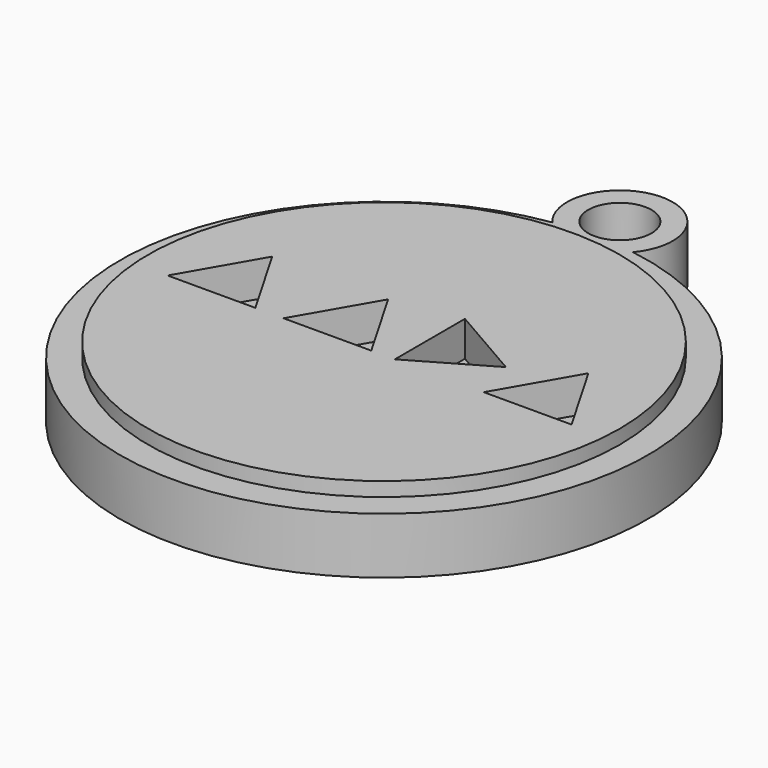
from build123d import *

# Parameters (mm, degrees)
F0_R     = 17.018
F0_R_2   = 2.286
F1_DEPTH = 4.064
F2_DEPTH = 5.08
F4_DEPTH = 2.54


with BuildPart() as f1:
    # F0 (on Top) → F1 (new body)
    with BuildSketch(Plane.XY):
        with BuildLine():
            ThreePointArc((-2.910637, 27.594249), (0, -10.282081), (2.910637, 27.594249))
            ThreePointArc((2.910637, 27.594249), (0, 33.862762), (-2.910637, 27.594249))
        make_face()
        with Locations((0, 8.767919)):
            Circle(F0_R, mode=Mode.SUBTRACT)
        with Locations((0, 30.052762)):
            Circle(F0_R_2, mode=Mode.SUBTRACT)
    extrude(amount=F1_DEPTH)

    # F0 (on Top) → F2 (join)
    with BuildSketch(Plane.XY):
        with Locations((0, 8.767919)):
            Circle(F0_R)
    extrude(amount=F2_DEPTH)

    # F3 (on face) → F4 (cut)
    with BuildSketch(Plane.XY.offset(5.08)):
        Polygon((-8.239756, 7.464734), (-11.410307, 12.945793), (-14.571768, 7.459487), align=None)
        Polygon((0.124255, 7.469981), (-3.046295, 12.95104), (-6.207756, 7.464734), align=None)
        Polygon((1.823385, 7.469981), (7.304444, 10.640532), (1.818137, 13.801993), align=None)
        Polygon((14.575767, 7.475229), (11.405217, 12.956288), (8.243755, 7.469981), align=None)
    extrude(amount=-F4_DEPTH, mode=Mode.SUBTRACT)


solid = f1.part
